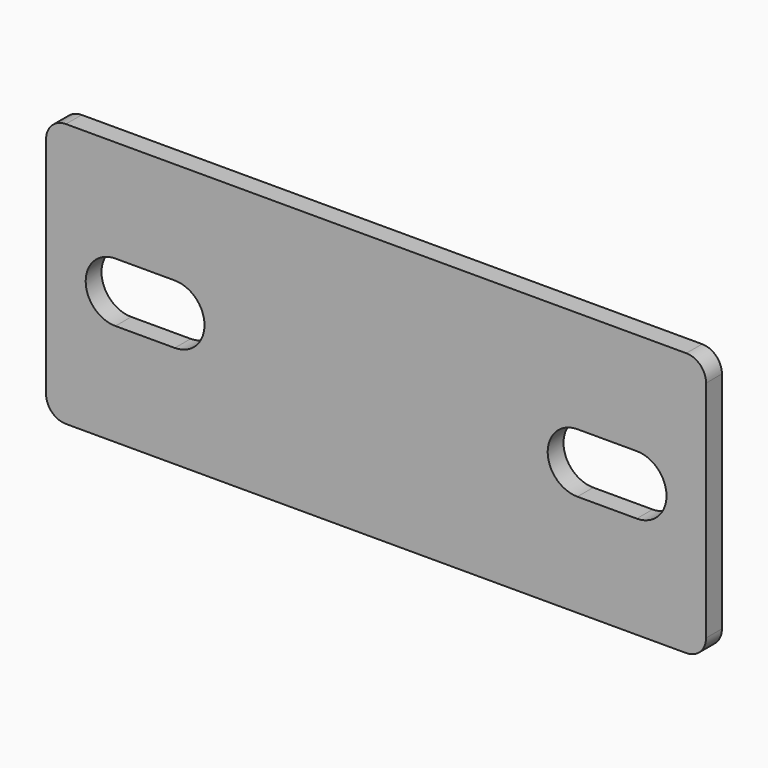
from build123d import *

# Parameters (mm, degrees)
F0_W     = 100
F0_H     = 40
F1_DEPTH = 3
F3_DEPTH = 25
F4_R     = 3


with BuildPart() as f1:
    # F0 (on Front) → F1 (new body)
    with BuildSketch(Plane.XZ):
        Rectangle(F0_W, F0_H)
    extrude(amount=F1_DEPTH)

    # F2 (on face) → F3 (cut)
    with BuildSketch(Plane.XZ.offset(3)):
        with BuildLine():
            ThreePointArc((39.5, -4.5), (44, 0), (39.5, 4.5))
            Line((39.5, 4.5), (30.5, 4.5))
            ThreePointArc((30.5, 4.5), (26, 0), (30.5, -4.5))
            Line((30.5, -4.5), (39.5, -4.5))
        make_face()
        with BuildLine():
            ThreePointArc((-39.5, 4.5), (-44, 0), (-39.5, -4.5))
            Line((-39.5, -4.5), (-30.5, -4.5))
            ThreePointArc((-30.5, -4.5), (-26, 0), (-30.5, 4.5))
            Line((-30.5, 4.5), (-39.5, 4.5))
        make_face()
    extrude(amount=-F3_DEPTH, mode=Mode.SUBTRACT)

    # F4
    f4_edges = [f1.edges().sort_by_distance(p)[0] for p in [
        (50, -1.5, -20),
        (50, -1.5, 20),
        (-50, -1.5, 20),
        (-50, -1.5, -20),
    ]]
    fillet(f4_edges, radius=F4_R)


solid = f1.part
